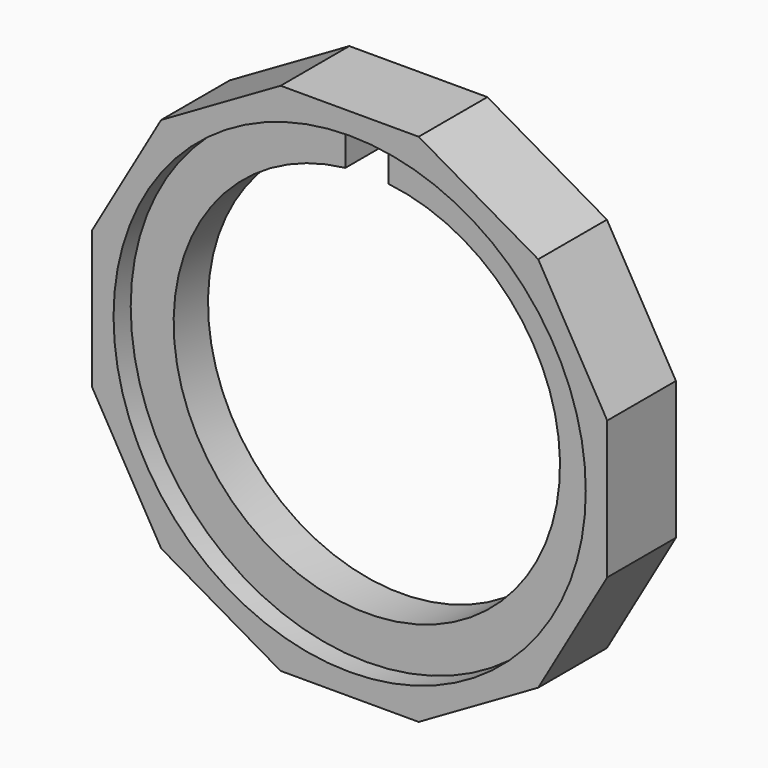
from build123d import *

# Parameters (mm, degrees)
F0_R     = 34.925
F1_DEPTH = 6.35
F3_DEPTH = 3.175


with BuildPart() as f1:
    # F0 (on Front) → F1 (new body, symmetric)
    with BuildSketch(Plane.XZ):
        Polygon((27.8911357684, 27.8911357684), (10.2088642316, 38.1), (-10.2088642316, 38.1), (-27.8911357684, 27.8911357684), (-38.1, 10.2088642316), (-38.1, -10.2088642316), (-27.8911357684, -27.8911357684), (-10.2088642316, -38.1), (10.2088642316, -38.1), (27.8911357684, -27.8911357684), (38.1, -10.2088642316), (38.1, 10.2088642316), align=None)
        Circle(F0_R, mode=Mode.SUBTRACT)
    extrude(amount=F1_DEPTH, both=True)

    # F2 (on Front) → F3 (join, symmetric)
    with BuildSketch(Plane.XZ):
        with BuildLine():
            Line((-3.175, 28.3980633142), (-3.175, 34.7803824016))
            ThreePointArc((-3.175, 34.7803824016), (0, -34.925), (3.175, 34.7803824016))
            Line((3.175, 34.7803824016), (3.175, 28.3980633142))
            ThreePointArc((3.175, 28.3980633142), (0, -28.575), (-3.175, 28.3980633142))
        make_face()
    extrude(amount=F3_DEPTH, both=True)


solid = f1.part
